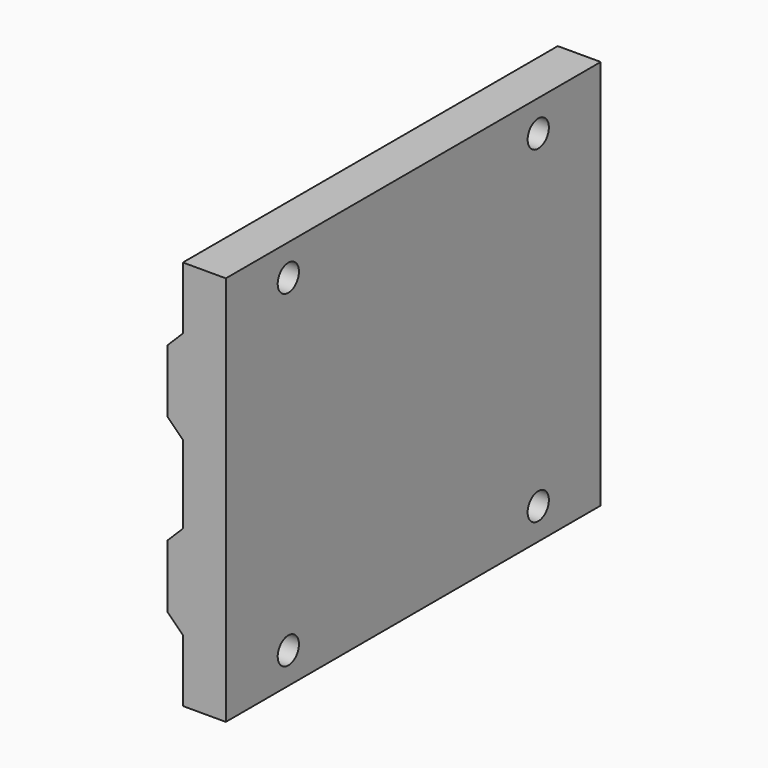
from build123d import *

# Parameters (mm, degrees)
F1_DEPTH = 76.2
F3_D     = 4.318
F3_DEPTH = 12.7
F3_TIP   = 1.2972580765
F4_R     = 3.96875
F4_R_2   = 2.159
F5_DEPTH = 2.54


with BuildPart() as f1:
    # F0 (on Front) → F1 (new body)
    with BuildSketch(Plane.XZ):
        Polygon((6.985, 50.8), (6.985, 40.64), (9.525, 38.1), (9.525, 25.4), (6.985, 22.86), (6.985, 12.7), (9.525, 10.16), (9.525, 0), (16.51, 0), (16.51, 63.5), (9.525, 63.5), (9.525, 53.34), align=None)
    extrude(amount=F1_DEPTH)

    # F3
    with Locations(Plane(origin=(9.525, 0, 0), x_dir=(0, -1, 0), z_dir=(-1, 0, 0))):
        with Locations((12.7, 58.42), (63.5, 58.42), (12.7, 5.08), (63.5, 5.08)):
            Hole(F3_D / 2, depth=F3_DEPTH)
            with Locations((0, 0, -(F3_DEPTH + F3_TIP / 2))):  # 118° drill point
                Cone(0, F3_D / 2, F3_TIP, mode=Mode.SUBTRACT)

    # F4 (on face) → F5 (cut)
    with BuildSketch(Plane(origin=(9.525, 0, 0), x_dir=(0, -1, 0), z_dir=(-1, 0, 0))):
        with Locations((12.7, 58.42)):
            Circle(F4_R)
        with Locations((12.7, 58.42)):
            Circle(F4_R_2, mode=Mode.SUBTRACT)
        with Locations((63.5, 58.42)):
            Circle(F4_R)
        with Locations((63.5, 58.42)):
            Circle(F4_R_2, mode=Mode.SUBTRACT)
        with Locations((12.7, 5.08)):
            Circle(F4_R)
        with Locations((12.7, 5.08)):
            Circle(F4_R_2, mode=Mode.SUBTRACT)
        with Locations((63.5, 5.08)):
            Circle(F4_R)
        with Locations((63.5, 5.08)):
            Circle(F4_R_2, mode=Mode.SUBTRACT)
    extrude(amount=-F5_DEPTH, mode=Mode.SUBTRACT)


solid = f1.part
